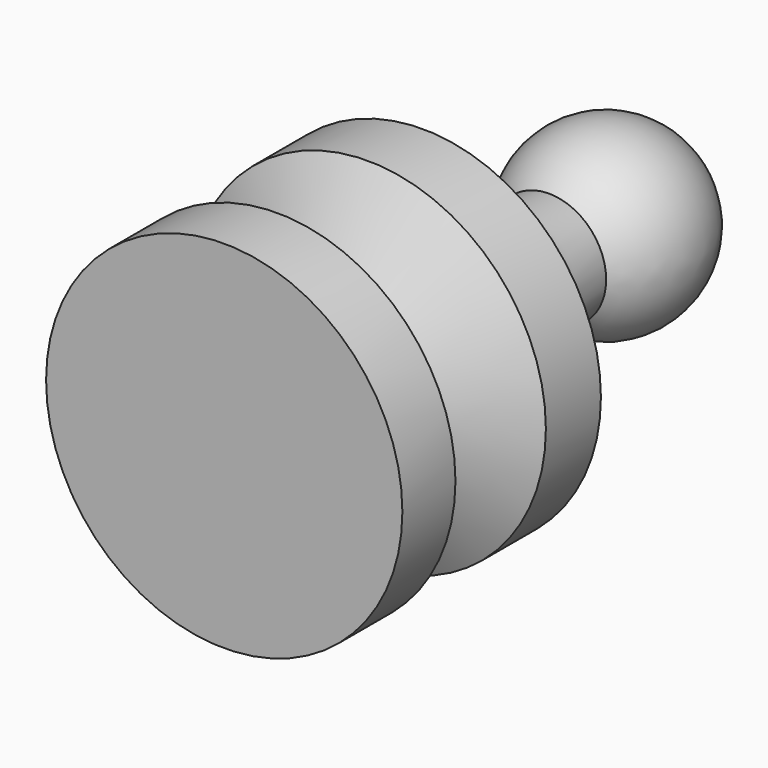
from build123d import *


with BuildPart() as f1:
    # F0 (on Top) → F1 (revolve)
    with BuildSketch(Plane.XY):
        with BuildLine():
            Line((0, 89.7379144643), (0, 0))
            Line((0, 0), (28.1657297164, 0))
            Line((28.1657297164, 0), (28.1657297164, 10.4893064126))
            Line((28.1657297164, 10.4893064126), (13.7914940715, 19.8131371289))
            Line((13.7914940715, 19.8131371289), (28.1657297164, 28.3599793911))
            Line((28.1657297164, 28.3599793911), (28.1657297164, 39.2377786338))
            add(Edge.make_bspline(
                [(28.1657297164, 39.2377786338), (21.9768478252, 41.8885405228), (10.0672666522, 46.9895368647), (9.3667969135, 58.6081767239), (9.030330276, 64.1891240076)],
                knots=[0, 0, 0, 0, 0.5196557126, 1, 1, 1, 1], degree=3))
            ThreePointArc((9.030330276, 64.1891240076), (13.5488704206, 80.1565213648), (0, 89.7379144643))
        make_face()
    revolve(axis=Axis((0, 44.8689572322, 0), (0, 1, 0)))


solid = f1.part
